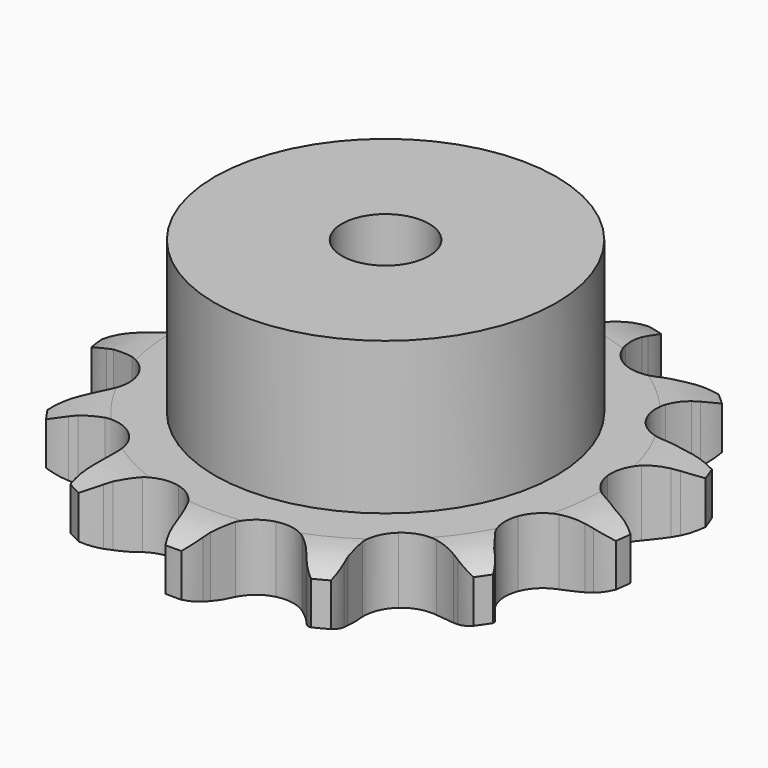
from build123d import *

# Parameters (mm, degrees)
PAD_DEPTH         = 9.1
SKETCH001_R       = 23.5
PAD001_DEPTH      = 30
SKETCH002_R       = 6
POCKET_DEPTH      = 0.001
POCKET_DEPTH_BACK = -30.001


with BuildPart() as part:
    # Sprocket → Pad (new body)
    with BuildSketch(Plane.XY):
        with BuildLine():
            ThreePointArc((-9.088284, 36.87262), (-7.385522, 35.381156), (-6.134724, 33.494528))
            Line((-6.134724, 33.494528), (-5.674805, 32.548331))
            ThreePointArc((-5.674805, 32.548331), (-4.898099, 31.166865), (-3.962254, 29.887836))
            ThreePointArc((-3.962254, 29.887836), (-2.189371, 28.513218), (0, 28.02399))
            ThreePointArc((0, 28.02399), (2.189371, 28.513218), (3.962254, 29.887836))
            ThreePointArc((3.962254, 29.887836), (4.898099, 31.166865), (5.674805, 32.548331))
            Line((5.674805, 32.548331), (6.134724, 33.494528))
            ThreePointArc((6.134724, 33.494528), (7.385522, 35.381156), (9.088284, 36.87262))
            ThreePointArc((9.088284, 36.87262), (9.902888, 34.760681), (10.133654, 32.50888))
            Line((10.133654, 32.50888), (10.101173, 31.457329))
            ThreePointArc((10.101173, 31.457329), (10.146914, 29.873149), (10.381168, 28.305716))
            ThreePointArc((10.381168, 28.305716), (11.312162, 26.264653), (13.023398, 24.814011))
            ThreePointArc((13.023398, 24.814011), (15.189345, 24.22975), (17.397972, 24.623013))
            Line((17.397972, 24.623013), (20.150754, 26.182903))
            ThreePointArc((20.150754, 26.182903), (20.568047, 26.503338), (20.997712, 26.806983))
            ThreePointArc((20.997712, 26.806983), (22.981998, 27.896235), (25.182837, 28.425547))
            ThreePointArc((25.182837, 28.425547), (24.922666, 26.176953), (24.080535, 24.07584))
            Line((24.080535, 24.07584), (23.563095, 23.159832))
            ThreePointArc((23.563095, 23.159832), (22.86739, 21.735854), (22.34639, 20.239097))
            ThreePointArc((22.34639, 20.239097), (22.222214, 17.999171), (23.063292, 15.919441))
            ThreePointArc((23.063292, 15.919441), (24.709623, 14.395537), (26.848024, 13.717355))
            Line((26.848024, 13.717355), (30.010408, 13.819287))
            ThreePointArc((30.010408, 13.819287), (30.528816, 13.909093), (31.050377, 13.978281))
            ThreePointArc((31.050377, 13.978281), (33.313576, 14.020622), (35.508305, 13.466524))
            ThreePointArc((35.508305, 13.466524), (34.232962, 11.5964), (32.510856, 10.127315))
            Line((32.510856, 10.127315), (31.626995, 9.556697))
            ThreePointArc((31.626995, 9.556697), (30.349223, 8.619136), (29.192323, 7.535946))
            ThreePointArc((29.192323, 7.535946), (28.041426, 5.610297), (27.819664, 3.377919))
            ThreePointArc((27.819664, 3.377919), (28.569225, 1.263481), (30.147517, -0.330785))
            Line((30.147517, -0.330785), (32.995039, -1.710161))
            ThreePointArc((32.995039, -1.710161), (33.495802, -1.871558), (33.989774, -2.052676))
            ThreePointArc((33.989774, -2.052676), (36.013414, -3.066946), (37.699248, -4.577517))
            ThreePointArc((37.699248, -4.577517), (35.700898, -5.640748), (33.493331, -6.141256))
            Line((33.493331, -6.141256), (32.445532, -6.235762))
            ThreePointArc((32.445532, -6.235762), (30.878415, -6.472121), (29.350647, -6.893601))
            ThreePointArc((29.350647, -6.893601), (27.436684, -8.063829), (26.202886, -9.937444))
            ThreePointArc((26.202886, -9.937444), (25.883961, -12.158024), (26.540577, -14.303145))
            Line((26.540577, -14.303145), (28.420905, -16.847832))
            ThreePointArc((28.420905, -16.847832), (28.789303, -17.223458), (29.142524, -17.61339))
            ThreePointArc((29.142524, -17.61339), (30.463014, -19.451914), (31.253748, -21.572905))
            ThreePointArc((31.253748, -21.572905), (28.990189, -21.585669), (26.802887, -21.002939))
            Line((26.802887, -21.002939), (25.831188, -20.599684))
            ThreePointArc((25.831188, -20.599684), (24.333734, -20.080694), (22.785091, -19.743906))
            ThreePointArc((22.785091, -19.743906), (20.546529, -19.890629), (18.583343, -20.976258))
            ThreePointArc((18.583343, -20.976258), (17.268994, -22.794272), (16.853511, -24.998827))
            Line((16.853511, -24.998827), (17.335883, -28.125867))
            ThreePointArc((17.335883, -28.125867), (17.487522, -28.629671), (17.619073, -29.139089))
            ThreePointArc((17.619073, -29.139089), (17.933904, -31.380683), (17.648391, -33.626199))
            ThreePointArc((17.648391, -33.626199), (15.638177, -32.585573), (13.972226, -31.053102))
            Line((13.972226, -31.053102), (13.299231, -30.244466))
            ThreePointArc((13.299231, -30.244466), (12.214488, -29.089021), (10.999746, -28.07112))
            ThreePointArc((10.999746, -28.07112), (8.949412, -27.160725), (6.70658, -27.209664))
            ThreePointArc((6.70658, -27.209664), (4.697908, -28.208627), (3.305509, -29.967579))
            Line((3.305509, -29.967579), (2.27942, -32.960606))
            ThreePointArc((2.27942, -32.960606), (2.17956, -33.477171), (2.059305, -33.989373))
            ThreePointArc((2.059305, -33.989373), (1.296353, -36.120515), (0, -37.976137))
            ThreePointArc((0, -37.976137), (-1.296353, -36.120515), (-2.059305, -33.989373))
            Line((-2.059305, -33.989373), (-2.27942, -32.960606))
            ThreePointArc((-2.27942, -32.960606), (-2.70295, -31.433405), (-3.305509, -29.967579))
            ThreePointArc((-3.305509, -29.967579), (-4.697908, -28.208627), (-6.70658, -27.209664))
            ThreePointArc((-6.70658, -27.209664), (-8.949412, -27.160725), (-10.999746, -28.07112))
            Line((-10.999746, -28.07112), (-13.299231, -30.244466))
            ThreePointArc((-13.299231, -30.244466), (-13.627712, -30.655455), (-13.972226, -31.053102))
            ThreePointArc((-13.972226, -31.053102), (-15.638177, -32.585573), (-17.648391, -33.626199))
            ThreePointArc((-17.648391, -33.626199), (-17.933904, -31.380683), (-17.619073, -29.139089))
            Line((-17.619073, -29.139089), (-17.335883, -28.125867))
            ThreePointArc((-17.335883, -28.125867), (-17.001175, -26.576774), (-16.853511, -24.998827))
            ThreePointArc((-16.853511, -24.998827), (-17.268994, -22.794272), (-18.583343, -20.976258))
            ThreePointArc((-18.583343, -20.976258), (-20.546529, -19.890629), (-22.785091, -19.743906))
            Line((-22.785091, -19.743906), (-25.831188, -20.599684))
            ThreePointArc((-25.831188, -20.599684), (-26.313041, -20.810944), (-26.802887, -21.002939))
            ThreePointArc((-26.802887, -21.002939), (-28.990189, -21.585669), (-31.253748, -21.572905))
            ThreePointArc((-31.253748, -21.572905), (-30.463014, -19.451914), (-29.142524, -17.61339))
            Line((-29.142524, -17.61339), (-28.420905, -16.847832))
            ThreePointArc((-28.420905, -16.847832), (-27.404636, -15.631725), (-26.540577, -14.303145))
            ThreePointArc((-26.540577, -14.303145), (-25.883961, -12.158024), (-26.202886, -9.937444))
            ThreePointArc((-26.202886, -9.937444), (-27.436684, -8.063829), (-29.350647, -6.893601))
            Line((-29.350647, -6.893601), (-32.445532, -6.235762))
            ThreePointArc((-32.445532, -6.235762), (-32.970368, -6.198896), (-33.493331, -6.141256))
            ThreePointArc((-33.493331, -6.141256), (-35.700898, -5.640748), (-37.699248, -4.577517))
            ThreePointArc((-37.699248, -4.577517), (-36.013414, -3.066946), (-33.989774, -2.052676))
            Line((-33.989774, -2.052676), (-32.995039, -1.710161))
            ThreePointArc((-32.995039, -1.710161), (-31.530024, -1.105635), (-30.147517, -0.330785))
            ThreePointArc((-30.147517, -0.330785), (-28.569225, 1.263481), (-27.819664, 3.377919))
            ThreePointArc((-27.819664, 3.377919), (-28.041426, 5.610297), (-29.192323, 7.535946))
            Line((-29.192323, 7.535946), (-31.626995, 9.556697))
            ThreePointArc((-31.626995, 9.556697), (-32.074582, 9.833244), (-32.510856, 10.127315))
            ThreePointArc((-32.510856, 10.127315), (-34.232962, 11.5964), (-35.508305, 13.466524))
            ThreePointArc((-35.508305, 13.466524), (-33.313576, 14.020622), (-31.050377, 13.978281))
            Line((-31.050377, 13.978281), (-30.010408, 13.819287))
            ThreePointArc((-30.010408, 13.819287), (-28.432265, 13.673741), (-26.848024, 13.717355))
            ThreePointArc((-26.848024, 13.717355), (-24.709623, 14.395537), (-23.063292, 15.919441))
            ThreePointArc((-23.063292, 15.919441), (-22.222214, 17.999171), (-22.34639, 20.239097))
            Line((-22.34639, 20.239097), (-23.563095, 23.159832))
            ThreePointArc((-23.563095, 23.159832), (-23.830895, 23.612707), (-24.080535, 24.07584))
            ThreePointArc((-24.080535, 24.07584), (-24.922666, 26.176953), (-25.182837, 28.425547))
            ThreePointArc((-25.182837, 28.425547), (-22.981998, 27.896235), (-20.997712, 26.806983))
            Line((-20.997712, 26.806983), (-20.150754, 26.182903))
            ThreePointArc((-20.150754, 26.182903), (-18.821015, 25.320629), (-17.397972, 24.623013))
            ThreePointArc((-17.397972, 24.623013), (-15.189345, 24.22975), (-13.023398, 24.814011))
            ThreePointArc((-13.023398, 24.814011), (-11.312162, 26.264653), (-10.381168, 28.305716))
            Line((-10.381168, 28.305716), (-10.101173, 31.457329))
            ThreePointArc((-10.101173, 31.457329), (-10.127838, 31.982783), (-10.133654, 32.50888))
            ThreePointArc((-10.133654, 32.50888), (-9.902888, 34.760681), (-9.088284, 36.87262))
        make_face()
    extrude(amount=PAD_DEPTH)

    # Sketch → Groove (revolve, cut)
    with BuildSketch(Plane.XZ):
        with BuildLine():
            Line((29.525762, 0), (36.5, 0))
            Line((43.474238, 0), (36.5, 0))
            Line((43.474238, 9.1), (43.474238, 0))
            Line((36.5, 9.1), (43.474238, 9.1))
            Line((29.525762, 9.1), (36.5, 9.1))
            ThreePointArc((36.5, 7.5), (33.10347, 8.694871), (29.525762, 9.1))
            Line((36.5, 1.6), (36.5, 7.5))
            ThreePointArc((29.525762, 0), (33.10347, 0.405129), (36.5, 1.6))
        make_face()
    revolve(axis=Axis((0, 0, 0), (0, 0, 1)), mode=Mode.SUBTRACT)

    # Sketch001 → Pad001 (join)
    with BuildSketch(Plane.XY):
        Circle(SKETCH001_R)
    extrude(amount=PAD001_DEPTH)

    # Sketch002 → Pocket (cut, two sides)
    with BuildSketch(Plane.XY) as pocket_sk:
        Circle(SKETCH002_R)
    extrude(amount=-POCKET_DEPTH, mode=Mode.SUBTRACT)
    extrude(pocket_sk.sketch, amount=-POCKET_DEPTH_BACK, mode=Mode.SUBTRACT)


solid = part.part
